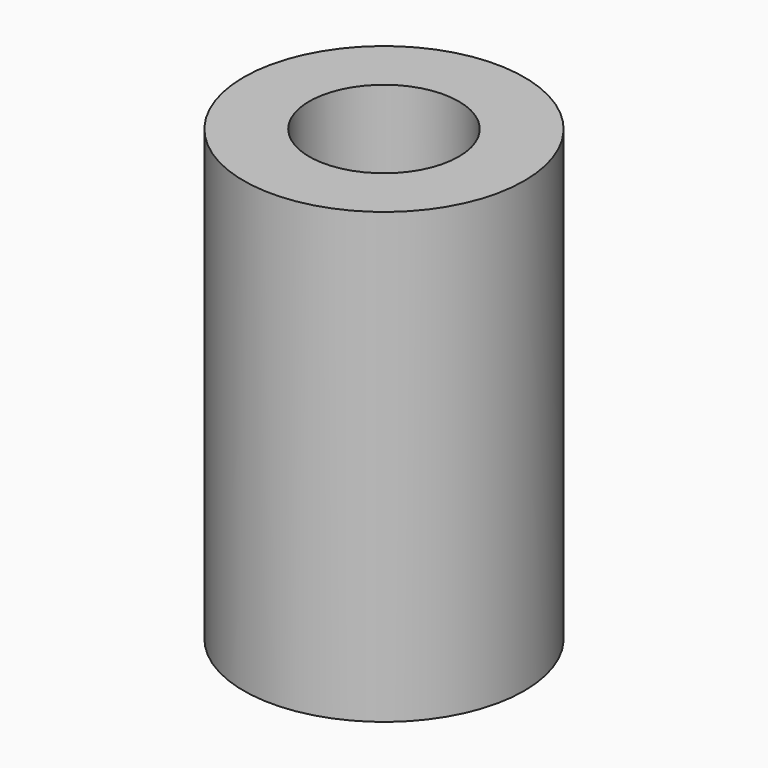
from build123d import *

# Parameters (mm, degrees)
CYLINDER_R     = 7.5
CYLINDER_DEPTH = 24
SKETCH_R       = 4
POCKET_DEPTH   = 24.001


with BuildPart() as part:
    # Cylinder → Cylinder (new body)
    with BuildSketch(Plane.XY):
        Circle(CYLINDER_R)
    extrude(amount=CYLINDER_DEPTH)

    # Sketch → Pocket (cut, through all)
    with BuildSketch(Plane.XY.offset(24)):
        Circle(SKETCH_R)
    extrude(amount=-POCKET_DEPTH, mode=Mode.SUBTRACT)


solid = part.part
